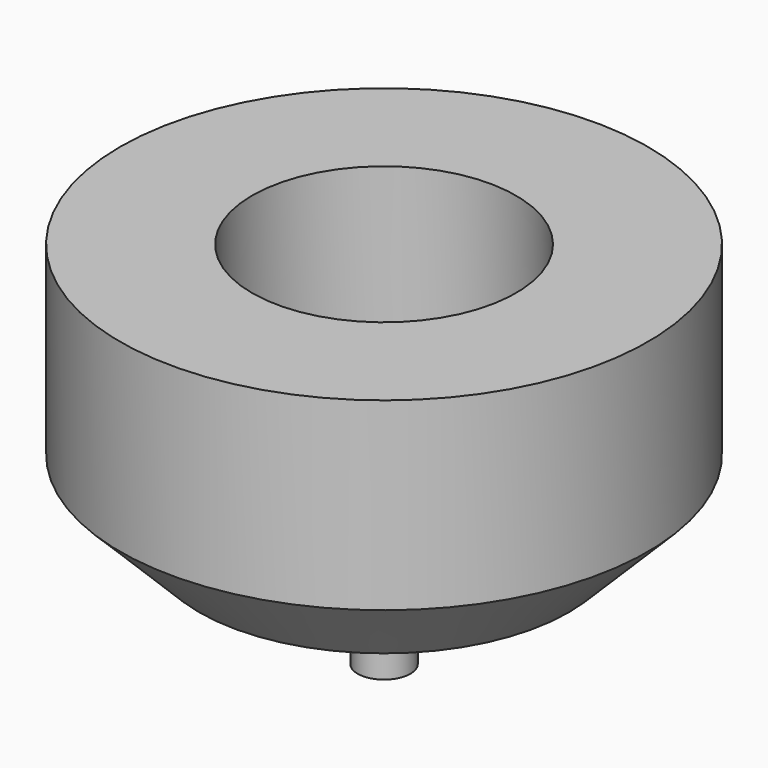
from build123d import *


with BuildPart() as part:
    # Sketch → Revolution (revolve)
    with BuildSketch(Plane.XZ):
        Polygon((-2.5, 0), (-5, 0), (-5, -3.5), (-3.5, -5), (-0.75, -5), (-0.5, -6), (-0.5, -7), (0, -7), (0, -3.5), (-2, -3.5), (-2.5, -3), align=None)
    revolve(axis=Axis((0, 0, 0), (0, 0, 1)))


solid = part.part
